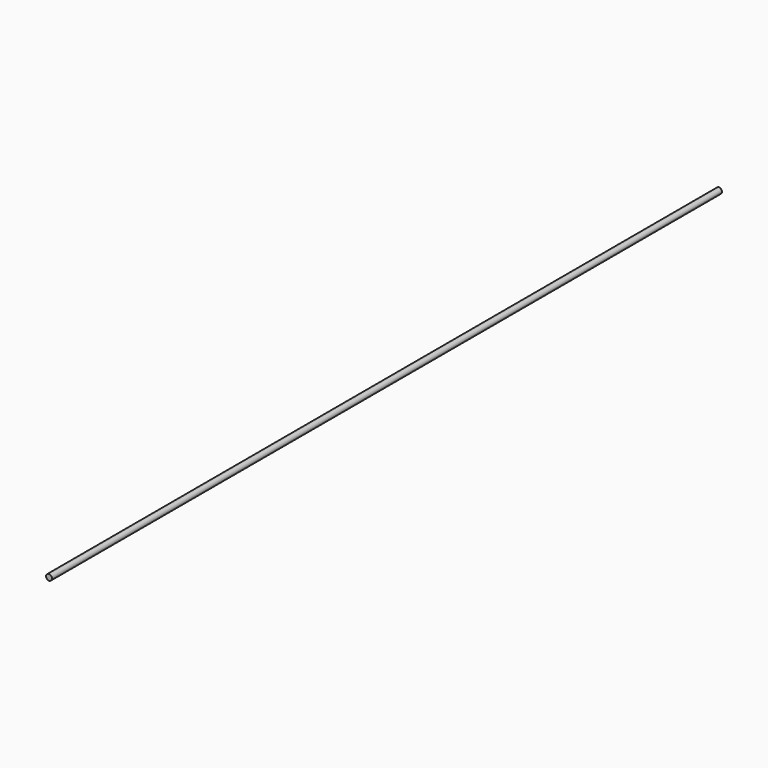
from build123d import *

# Parameters (mm, degrees)
F1_R = 3.5


with BuildPart() as f2:
    # F2: sweep along a path in F0
    with BuildLine(Plane.XY) as f2_path:
        Line((0, 0), (0, 1000))
    # F1 (on Front) → F2 (sweep)
    with BuildSketch(Plane.XZ):
        Circle(F1_R)
    sweep(path=f2_path.line)


solid = f2.part
